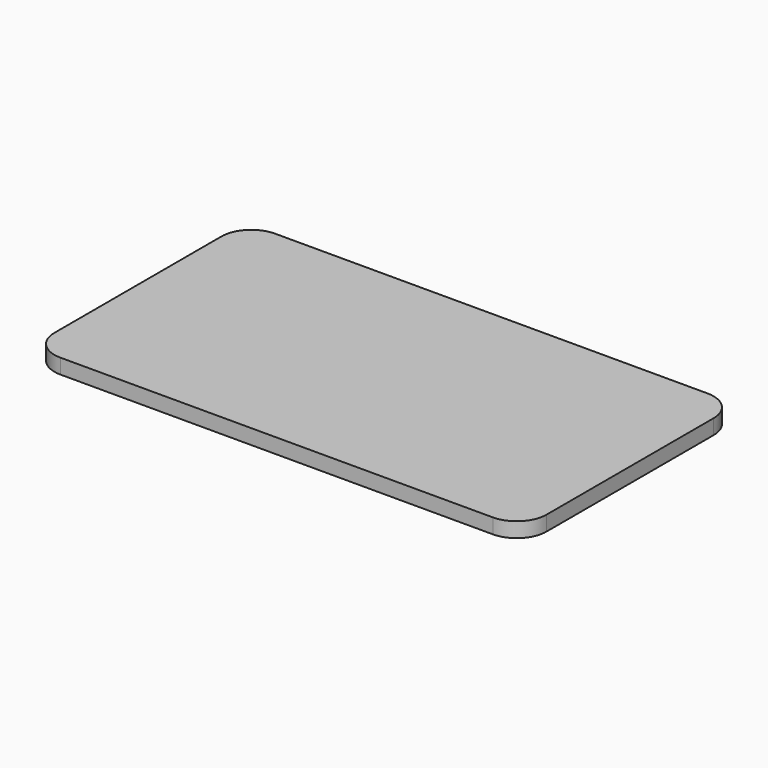
from build123d import *

# Parameters (mm, degrees)
SKETCH_W  = 330
SKETCH_H  = 180
PAD_DEPTH = 10
FILLET_R  = 20


with BuildPart() as part:
    # Sketch → Pad (new body)
    with BuildSketch(Plane.XY):
        with Locations((98, -55)):
            Rectangle(SKETCH_W, SKETCH_H)
    extrude(amount=PAD_DEPTH)

    # Fillet
    fillet_edges = [part.edges().sort_by_distance(p)[0] for p in [
        (-67, -145, 5),
        (263, -145, 5),
        (263, 35, 5),
        (-67, 35, 5),
    ]]
    fillet(fillet_edges, radius=FILLET_R)


solid = part.part
